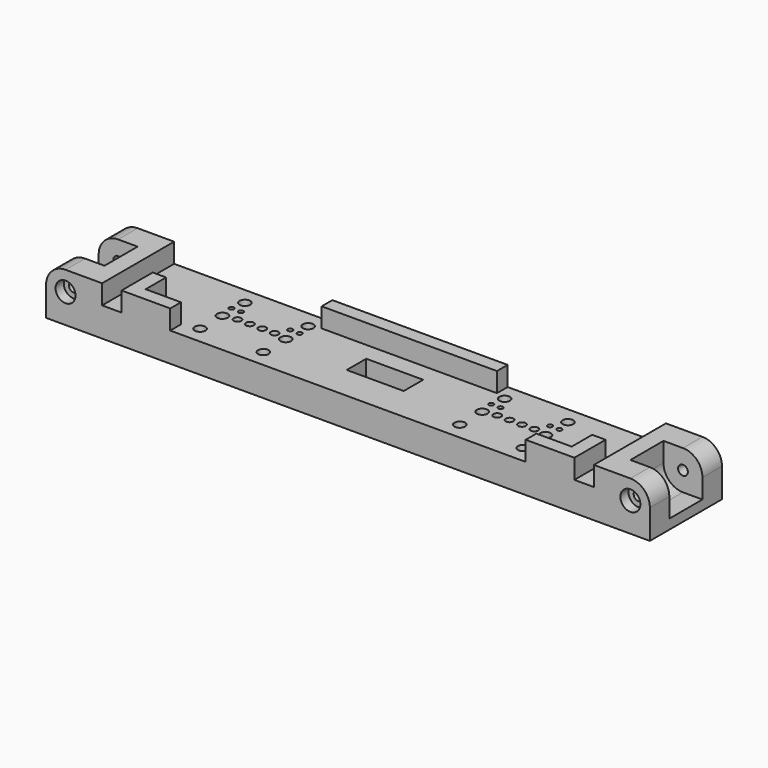
from build123d import *

# Parameters (mm, degrees)
SKETCH_W            = 124
SKETCH_H            = 18.5
SKETCH_R            = 0.5
PAD_DEPTH           = 6
HOLE_D              = 0.85
HOLE_DEPTH          = 25
HOLE_CBORE_D        = 1.575
HOLE_CBORE_DEPTH    = 1.8
CHAMFER_SIZE        = 0.2
SKETCH002_W         = 11.5
SKETCH002_H         = 18.5
SKETCH002_W_2       = 36
SKETCH002_H_2       = 2.75
PAD001_DEPTH        = 4
CHAMFER001_SIZE     = 0.4
SKETCH003_R         = 1.1
POCKET_DEPTH        = 10.001
CHAMFER002_SIZE     = 0.7
SKETCH004_W         = 8
SKETCH004_H         = 8.5
POCKET001_DEPTH     = 8
HOLE003_D           = 2
HOLE003_CBORE_D     = 4.1
HOLE003_CBORE_DEPTH = 2.1
FILLET_R            = 4
POCKET002_DEPTH     = 2.1
SKETCH022_W         = 11.69728
SKETCH022_H         = 8
POCKET005_DEPTH     = 3
SKETCH023_W         = 11.69728
SKETCH023_H         = 5
POCKET006_DEPTH     = 5
POCKET007_DEPTH     = 2


with BuildPart() as part:
    # Sketch → Pad (new body)
    with BuildSketch(Plane(origin=(0, 0, 0), x_dir=(-1, 0, 0), z_dir=(0, 0, -1))):
        with Locations((0, -6.75)):
            Rectangle(SKETCH_W, SKETCH_H)
        with Locations((-33.67, -3.81)):
            Circle(SKETCH_R, mode=Mode.SUBTRACT)
        with Locations((-31.745, -3.81)):
            Circle(SKETCH_R, mode=Mode.SUBTRACT)
        with Locations((-21.595, -3.81)):
            Circle(SKETCH_R, mode=Mode.SUBTRACT)
        with Locations((-19.67, -3.81)):
            Circle(SKETCH_R, mode=Mode.SUBTRACT)
        with Locations((19.67, -3.81)):
            Circle(SKETCH_R, mode=Mode.SUBTRACT)
        with Locations((21.595, -3.81)):
            Circle(SKETCH_R, mode=Mode.SUBTRACT)
        with Locations((31.745, -3.81)):
            Circle(SKETCH_R, mode=Mode.SUBTRACT)
        with Locations((33.67, -3.81)):
            Circle(SKETCH_R, mode=Mode.SUBTRACT)
    extrude(amount=PAD_DEPTH)

    # Hole
    with Locations(Plane.XY):
        with Locations((-30.48, -6.25), (-27.94, -6.25), (-25.4, -6.25), (-22.86, -6.25), (22.86, -6.25), (25.4, -6.25), (27.94, -6.25), (30.48, -6.25)):
            CounterBoreHole(HOLE_D / 2, HOLE_CBORE_D / 2, HOLE_CBORE_DEPTH, depth=HOLE_DEPTH)

    # Chamfer
    chamfer_edges = [part.edges().sort_by_distance(p)[0] for p in [
        (30.055, -6.25, -1.8),
        (27.515, -6.25, -1.8),
        (24.975, -6.25, -1.8),
        (22.435, -6.25, -1.8),
        (-30.905, -6.25, -1.8),
        (-28.365, -6.25, -1.8),
        (-25.825, -6.25, -1.8),
        (-23.285, -6.25, -1.8),
    ]]
    chamfer(chamfer_edges, length=CHAMFER_SIZE)

    # Sketch002 (on Face25 of Chamfer) → Pad001 (join)
    with BuildSketch(Plane.XY):
        with Locations((-56.25, -6.75)):
            Rectangle(SKETCH002_W, SKETCH002_H)
        with Locations((56.25, -6.75)):
            Rectangle(SKETCH002_W, SKETCH002_H)
        with Locations((0, 1.125)):
            Rectangle(SKETCH002_W_2, SKETCH002_H_2)
        Polygon((-46.5, -16), (-46.5, -8), (-43.75, -8), (-43.75, -13.25), (-36.5, -13.25), (-36.5, -16), align=None)
        Polygon((46.5, -16), (46.5, -8), (43.75, -8), (43.75, -13.25), (36.5, -13.25), (36.5, -16), align=None)
    extrude(amount=PAD001_DEPTH)

    # Chamfer001
    chamfer001_edges = [part.edges().sort_by_distance(p)[0] for p in [
        (34.17, -3.81, -6),
        (32.245, -3.81, -6),
        (22.095, -3.81, -6),
        (20.17, -3.81, -6),
        (-19.17, -3.81, -6),
        (-21.095, -3.81, -6),
        (-31.245, -3.81, -6),
        (-33.17, -3.81, -6),
    ]]
    chamfer(chamfer001_edges, length=CHAMFER001_SIZE)

    # Sketch003 (on Face23 of Chamfer001) → Pocket (cut, through all)
    with BuildSketch(Plane.XY.offset(4)):
        with Locations((-33.17, -1)):
            Circle(SKETCH003_R)
        with Locations((-20.17, -1)):
            Circle(SKETCH003_R)
        with Locations((-33.17, -6.75)):
            Circle(SKETCH003_R)
        with Locations((-20.17, -6.75)):
            Circle(SKETCH003_R)
        with Locations((-20.17, -12.5)):
            Circle(SKETCH003_R)
        with Locations((-33.17, -12.5)):
            Circle(SKETCH003_R)
        with Locations((20.17, -1)):
            Circle(SKETCH003_R)
        with Locations((33.17, -1)):
            Circle(SKETCH003_R)
        with Locations((20.17, -6.75)):
            Circle(SKETCH003_R)
        with Locations((33.17, -6.75)):
            Circle(SKETCH003_R)
        with Locations((33.17, -12.5)):
            Circle(SKETCH003_R)
        with Locations((20.17, -12.5)):
            Circle(SKETCH003_R)
    extrude(amount=-POCKET_DEPTH, mode=Mode.SUBTRACT)

    # Chamfer002
    chamfer002_edges = [part.edges().sort_by_distance(p)[0] for p in [
        (32.07, -6.75, -6),
        (-21.27, -1, -6),
        (19.07, -12.5, -6),
        (19.07, -6.75, -6),
        (19.07, -1, -6),
        (32.07, -1, -6),
        (-34.27, -6.75, -6),
        (-34.27, -12.5, -6),
        (-21.27, -12.5, -6),
        (-21.27, -6.75, -6),
        (32.07, -12.5, -6),
        (-34.27, -1, -6),
    ]]
    chamfer(chamfer002_edges, length=CHAMFER002_SIZE)

    # Sketch004 (on Face35 of Chamfer002) → Pocket001 (cut)
    with BuildSketch(Plane.XY.offset(4)):
        with Locations((-58, -6.75)):
            Rectangle(SKETCH004_W, SKETCH004_H)
        with Locations((58, -6.75)):
            Rectangle(SKETCH004_W, SKETCH004_H)
    extrude(amount=-POCKET001_DEPTH, mode=Mode.SUBTRACT)

    # Hole003 (through all)
    with Locations(Plane.XZ.offset(16)):
        with Locations((-58, 0), (58, 0)):
            CounterBoreHole(HOLE003_D / 2, HOLE003_CBORE_D / 2, HOLE003_CBORE_DEPTH)

    # Fillet
    fillet_edges = [part.edges().sort_by_distance(p)[0] for p in [
        (-62, 0, 4),
        (-62, -13.5, 4),
        (62, 0, 4),
        (62, -13.5, 4),
        (54, -6.75, -4),
        (-54, -6.75, -4),
    ]]
    fillet(fillet_edges, radius=FILLET_R)

    # Sketch015 (on Face1 of Fillet) → Pocket002 (cut)
    with BuildSketch(Plane(origin=(0, 2.5, 0), x_dir=(-1, 0, 0), z_dir=(0, 1, 0))):
        Polygon((-56.845299, 2), (-59.154701, 2), (-60.309401, 0), (-59.154701, -2), (-56.845299, -2), (-55.690599, 0), align=None)
        Polygon((55.690599, 0), (56.845299, -2), (59.154701, -2), (60.309401, 0), (59.154701, 2), (56.845299, 2), align=None)
    extrude(amount=-POCKET002_DEPTH, mode=Mode.SUBTRACT)

    # Sketch022 (on Face4 of Pocket002) → Pocket005 (cut)
    with BuildSketch(Plane(origin=(0, 0, -6), x_dir=(1, 0, 0), z_dir=(0, 0, -1))):
        with Locations((0, 8)):
            Rectangle(SKETCH022_W, SKETCH022_H)
    extrude(amount=-POCKET005_DEPTH, mode=Mode.SUBTRACT)

    # Sketch023 (on Face122 of Pocket005) → Pocket006 (cut)
    with BuildSketch(Plane(origin=(0, 0, -3), x_dir=(1, 0, 0), z_dir=(0, 0, -1))):
        with Locations((0, 6.5)):
            Rectangle(SKETCH023_W, SKETCH023_H)
    extrude(amount=-POCKET006_DEPTH, mode=Mode.SUBTRACT)

    # Sketch027 (on Face4 of Pocket006) → Pocket007 (cut)
    with BuildSketch(Plane(origin=(0, 0, -6), x_dir=(1, 0, 0), z_dir=(0, 0, -1))):
        with BuildLine():
            ThreePointArc((-33.67, 4.71), (-34.57, 3.81), (-33.67, 2.91))
            Line((-33.67, 2.91), (-19.67, 2.91))
            ThreePointArc((-19.67, 2.91), (-18.77, 3.81), (-19.67, 4.71))
            Line((-33.67, 4.71), (-19.67, 4.71))
        make_face()
        with BuildLine():
            ThreePointArc((19.67, 4.71), (18.77, 3.81), (19.67, 2.91))
            Line((19.67, 2.91), (33.67, 2.91))
            ThreePointArc((33.67, 2.91), (34.57, 3.81), (33.67, 4.71))
            Line((19.67, 4.71), (33.67, 4.71))
        make_face()
    extrude(amount=-POCKET007_DEPTH, mode=Mode.SUBTRACT)


solid = part.part
